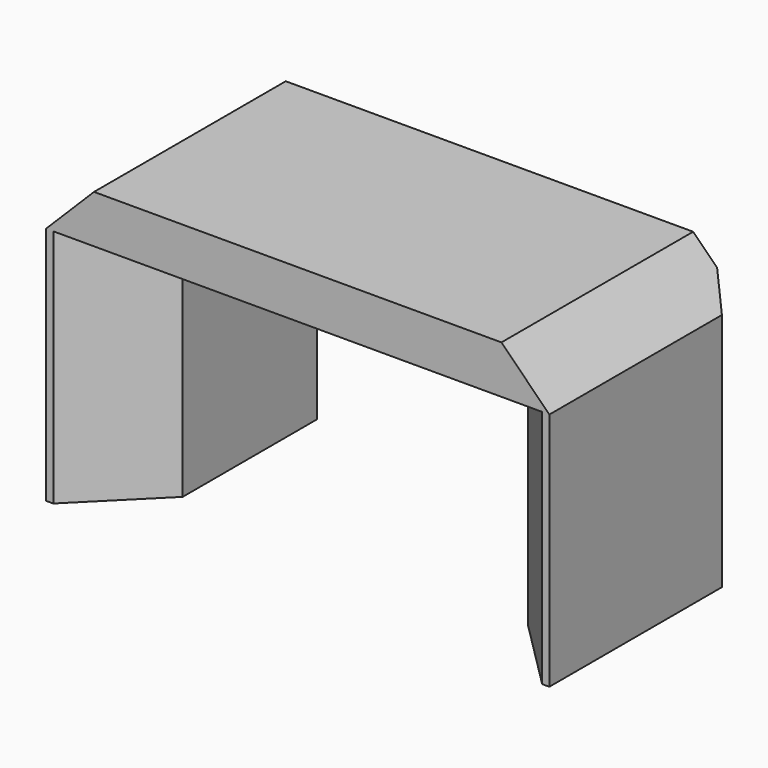
from build123d import *

# Parameters (mm, degrees)
CYLINDER1635_R     = 1.5
CYLINDER1635_DEPTH = 60
CYLINDER1636_R     = 1.5
CYLINDER1636_DEPTH = 60
CYLINDER1637_R     = 1.5
CYLINDER1637_DEPTH = 60
CYLINDER1634_R     = 1.5
CYLINDER1634_DEPTH = 60
CYLINDER1627_R     = 2.5
CYLINDER1627_DEPTH = 48
BOX653_W           = 28.8
BOX653_H           = 34.21
BOX653_DEPTH       = 20
BOX654_W           = 42
BOX654_H           = 20
BOX654_DEPTH       = 24
CHAMFER038_SIZE    = 6
CHAMFER039_SIZE    = 4
CHAMFER044_SIZE    = 2


with BuildPart() as obj1:
    # Cylinder1635 → Cylinder1635 (new body)
    with BuildSketch(Plane(origin=(18, 85, -57), x_dir=(1, 0, 0), z_dir=(0, 0, 1))):
        Circle(CYLINDER1635_R)
    extrude(amount=CYLINDER1635_DEPTH)


with BuildPart() as obj2:
    # Cylinder1636 → Cylinder1636 (new body)
    with BuildSketch(Plane(origin=(-18, 85, -57), x_dir=(1, 0, 0), z_dir=(0, 0, 1))):
        Circle(CYLINDER1636_R)
    extrude(amount=CYLINDER1636_DEPTH)


with BuildPart() as obj3:
    # Cylinder1637 → Cylinder1637 (new body)
    with BuildSketch(Plane(origin=(-18, 95, -57), x_dir=(1, 0, 0), z_dir=(0, 0, 1))):
        Circle(CYLINDER1637_R)
    extrude(amount=CYLINDER1637_DEPTH)


with BuildPart() as compound809:
    # Cylinder1634 → Cylinder1634 (new body)
    with BuildSketch(Plane(origin=(18, 95, -57), x_dir=(1, 0, 0), z_dir=(0, 0, 1))):
        Circle(CYLINDER1634_R)
    extrude(amount=CYLINDER1634_DEPTH)

    # Compound809: union obj1, obj2, obj3
    add(obj1.part)
    add(obj2.part)
    add(obj3.part)


with BuildPart() as compound809_1:
    # Compound809 placement: moved
    add(compound809.part.moved(Location((0, 0, -16))))


with BuildPart() as obj4:
    # Cylinder1627 → Cylinder1627 (new body)
    with BuildSketch(Plane(origin=(0, 90, -55), x_dir=(1, 0, 0), z_dir=(0, 0, 1))):
        Circle(CYLINDER1627_R)
    extrude(amount=CYLINDER1627_DEPTH)


with BuildPart() as compound805:
    # Box653 → Box653 (new body)
    with BuildSketch(Plane(origin=(-14.4, -15.34, 34), x_dir=(1, 0, 0), z_dir=(0, 0, 1))):
        with Locations((14.4, 17.105)):
            Rectangle(BOX653_W, BOX653_H)
    extrude(amount=BOX653_DEPTH)


with BuildPart() as compound805_1:
    # Compound805 placement: moved
    add(compound805.part.moved(Location((0, 90, -83))))


with BuildPart() as chamfer044:
    # Box654 → Box654 (new body)
    with BuildSketch(Plane(origin=(-21, 80, -49), x_dir=(1, 0, 0), z_dir=(0, 0, 1))):
        with Locations((21, 10)):
            Rectangle(BOX654_W, BOX654_H)
    extrude(amount=BOX654_DEPTH)

    # Cut315: cut Compound805
    add(compound805_1.part, mode=Mode.SUBTRACT)


with BuildPart() as chamfer044_1:
    # Cut315 placement: moved
    add(chamfer044.part.moved(Location((0, 0, 21))))

    # Cut316: cut obj4
    add(obj4.part, mode=Mode.SUBTRACT)

    # Chamfer038
    chamfer038_edges = [chamfer044_1.edges().sort_by_distance(p)[0] for p in [
        (-14.4, 80, -18),
        (14.4, 80, -18),
    ]]
    chamfer(chamfer038_edges, length=CHAMFER038_SIZE)

    # Cut325: cut Compound809
    add(compound809_1.part, mode=Mode.SUBTRACT)

    # Chamfer039
    chamfer039_edges = [chamfer044_1.edges().sort_by_distance(p)[0] for p in [
        (-21, 90, -4),
        (21, 90, -4),
    ]]
    chamfer(chamfer039_edges, length=CHAMFER039_SIZE)

    # Chamfer044
    chamfer044_edges = [chamfer044_1.edges().sort_by_distance(p)[0] for p in [
        (-21, 100, -18),
        (21, 100, -18),
    ]]
    chamfer(chamfer044_edges, length=CHAMFER044_SIZE)


solid = chamfer044_1.part
